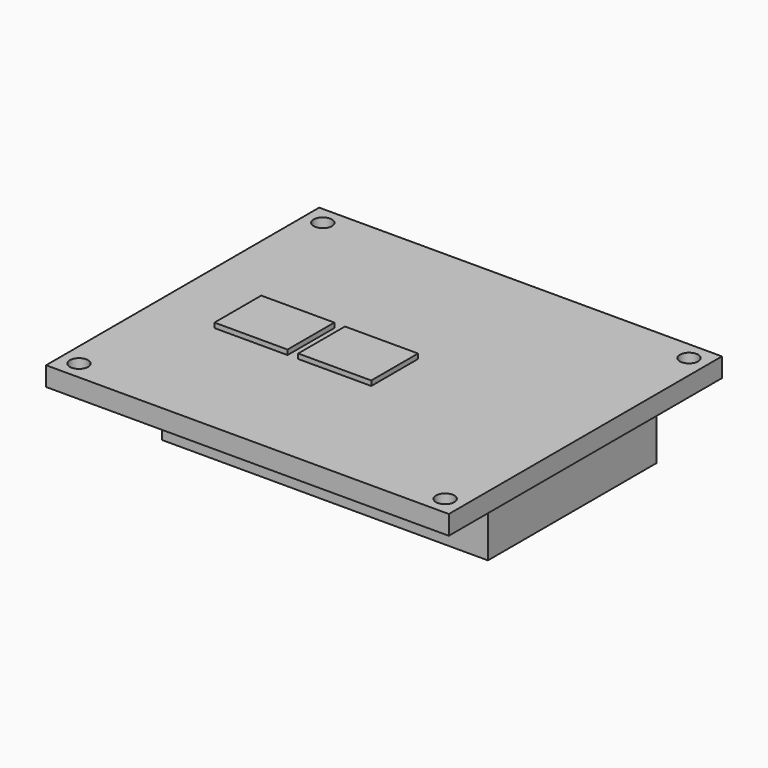
from build123d import *

# Parameters (mm, degrees)
F0_W     = 105
F0_H     = 89
F2_DEPTH = 5
F1_W     = 85
F1_H     = 55
F3_DEPTH = 15
F4_W     = 19.05
F4_H     = 15.24
F5_DEPTH = 1.27
F7_D     = 4.7625


with BuildPart() as f2:
    # F0 (on Top) → F2 (new body)
    with BuildSketch(Plane.XY):
        with Locations((-8.15268, 10.297881)):
            Rectangle(F0_W, F0_H)
    extrude(amount=F2_DEPTH)

    # F1 (on face) → F3 (join)
    with BuildSketch(Plane.XY):
        with Locations((-3.15268, 12.297881)):
            Rectangle(F1_W, F1_H)
    extrude(amount=-F3_DEPTH)

    # F4 (on face) → F5 (join)
    with BuildSketch(Plane.XY.offset(5)):
        with Locations((-34.587345, 7.62)):
            Rectangle(F4_W, F4_H)
        with Locations((-12.761215, 7.62)):
            Rectangle(F4_W, F4_H)
    extrude(amount=F5_DEPTH)

    # F7 (through all)
    with Locations(Plane.XY.offset(5)):
        with Locations((-55.89018, 50.035381), (-55.89018, -29.439619), (39.58482, 50.035381), (39.58482, -29.439619)):
            Hole(F7_D / 2)


solid = f2.part
